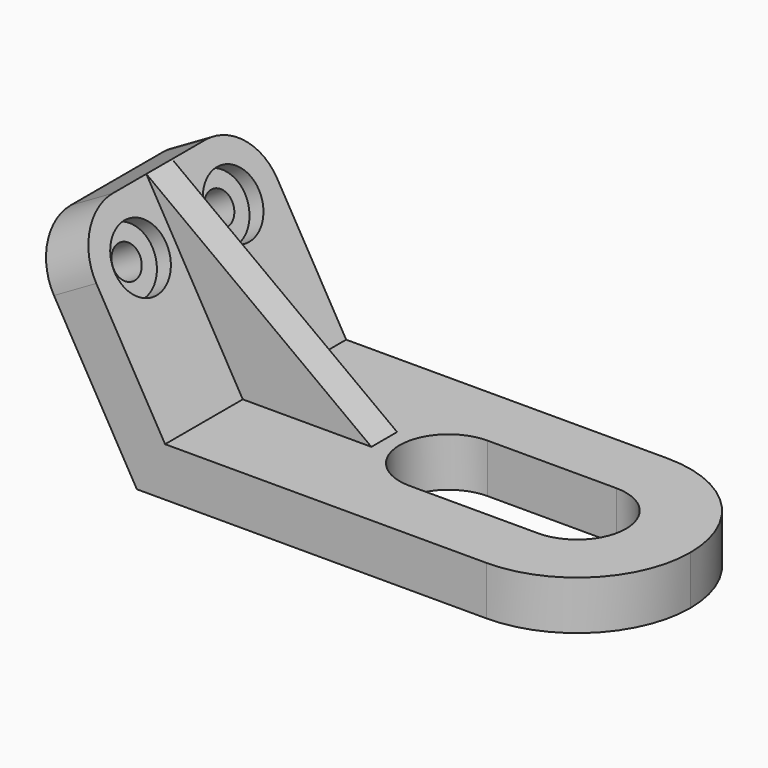
from build123d import *

# Parameters (mm, degrees)
F1_DEPTH  = 1.76
F3_DEPTH  = 25
F4_R      = 0.25
F5_DEPTH  = 0.125
F6_DEPTH  = 25
F8_R      = 0.125
F9_DEPTH  = 25
F12_DEPTH = 0.125


with BuildPart() as f1:
    # F0 (on Front) → F1 (new body)
    with BuildSketch(Plane.XZ):
        Polygon((2.5, 0), (0, 0), (-0.75, 1.2990381057), (-1.0790896534, 1.1090381057), (-0.2193931023, -0.38), (3.38, -0.38), (3.38, 0), align=None)
    extrude(amount=-F1_DEPTH)

    # F2 (on face) → F3 (cut)
    with BuildSketch(Plane.XY):
        with BuildLine():
            Line((1.5, 0.5), (2.5, 0.5))
            ThreePointArc((2.5, 0.5), (2.88, 0.88), (2.5, 1.26))
            Line((2.5, 1.26), (1.5, 1.26))
            ThreePointArc((1.5, 1.26), (1.12, 0.88), (1.5, 0.5))
        make_face()
        with BuildLine():
            ThreePointArc((2.5, 1.76), (3.1222539674, 1.5022539674), (3.38, 0.88))
            Line((3.38, 0.88), (3.38, 1.76))
            Line((3.38, 1.76), (2.5, 1.76))
        make_face()
        with BuildLine():
            ThreePointArc((3.38, 0.88), (3.1222539674, 0.2577460326), (2.5, 0))
            Line((2.5, 0), (3.38, 0))
            Line((3.38, 0), (3.38, 0.88))
        make_face()
    extrude(amount=-F3_DEPTH, mode=Mode.SUBTRACT)

    # F4 (on face) → F5 (cut)
    with BuildSketch(Plane(origin=(0, 0, 0), x_dir=(0, 1, 0), z_dir=(0.8660254038, 0, 0.5))):
        with Locations((0.43, 1.07)):
            Circle(F4_R)
        with Locations((1.33, 1.07)):
            Circle(F4_R)
    extrude(amount=-F5_DEPTH, mode=Mode.SUBTRACT)

    # F4 (on face) → F6 (cut)
    with BuildSketch(Plane(origin=(0, 0, 0), x_dir=(0, 1, 0), z_dir=(0.8660254038, 0, 0.5))):
        with BuildLine():
            ThreePointArc((1.33, 1.5), (1.6340559159, 1.3740559159), (1.76, 1.07))
            Line((1.76, 1.07), (1.76, 1.5))
            Line((1.76, 1.5), (1.33, 1.5))
        make_face()
        with BuildLine():
            ThreePointArc((0, 1.07), (0.1259440841, 1.3740559159), (0.43, 1.5))
            Line((0.43, 1.5), (0, 1.5))
            Line((0, 1.5), (0, 1.07))
        make_face()
    extrude(amount=-F6_DEPTH, mode=Mode.SUBTRACT)

    # F8 (on offset) → F9 (cut)
    with BuildSketch(Plane(origin=(-0.1082531755, 0, -0.0625), x_dir=(0, 1, 0), z_dir=(0.8660254038, 0, 0.5))):
        with Locations((0.43, 1.07)):
            Circle(F8_R)
        with Locations((1.33, 1.07)):
            Circle(F8_R)
    extrude(amount=-F9_DEPTH, mode=Mode.SUBTRACT)

    # F11 (on offset) → F12 (join, symmetric)
    with BuildSketch(Plane.XZ.offset(-0.88)):
        Polygon((-0.75, 1.2990381057), (0, 0), (1, 0), align=None)
    extrude(amount=F12_DEPTH, both=True)


solid = f1.part
